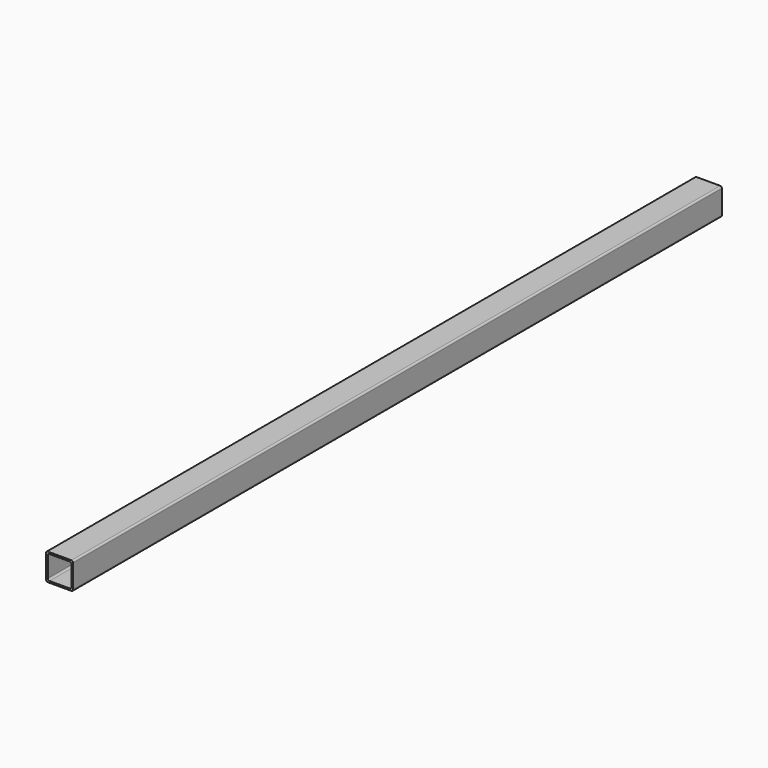
from build123d import *

# Parameters (mm, degrees)
F0_W     = 101.6
F0_H     = 101.6
F0_W_2   = 88.9
F0_H_2   = 88.9
F1_DEPTH = 1524
F2_R     = 6.35


with BuildPart() as f1:
    # F0 (on Front) → F1 (new body, symmetric)
    with BuildSketch(Plane.XZ):
        Rectangle(F0_W, F0_H)
        Rectangle(F0_W_2, F0_H_2, mode=Mode.SUBTRACT)
    extrude(amount=F1_DEPTH, both=True)

    # F2
    f2_edges = [f1.edges().sort_by_distance(p)[0] for p in [
        (-50.8, 0, 50.8),
        (-50.8, 0, -50.8),
        (50.8, 0, 50.8),
        (50.8, 0, -50.8),
        (-44.45, 0, -44.45),
        (-44.45, 0, 44.45),
        (44.45, 0, -44.45),
        (44.45, 0, 44.45),
    ]]
    fillet(f2_edges, radius=F2_R)


solid = f1.part
